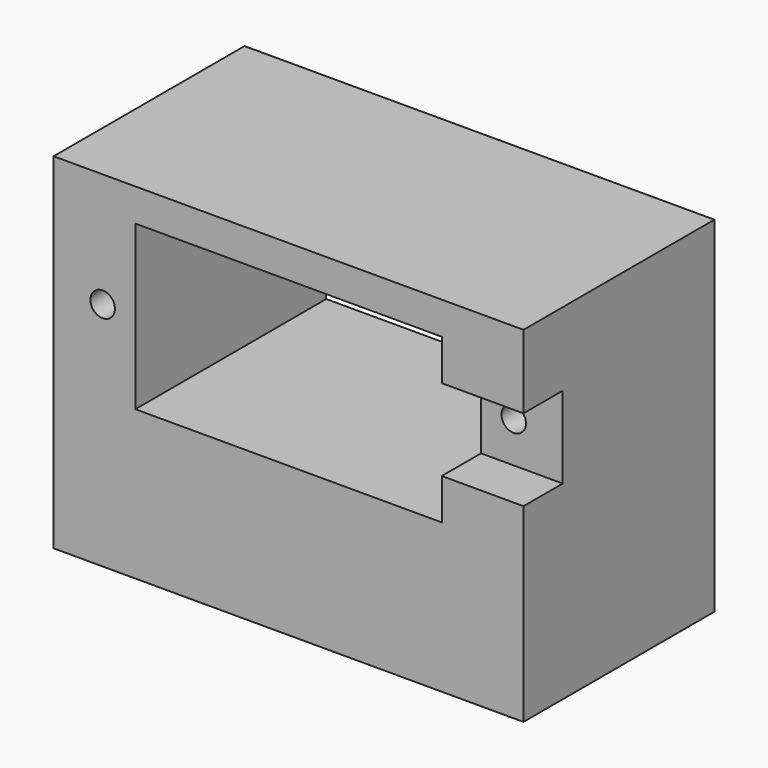
from build123d import *

# Parameters (mm, degrees)
F0_W     = 6.35
F0_H     = 12.7
F0_W_2   = 23.8125
F0_H_2   = 2.54
F0_H_3   = 0.76
F1_DEPTH = 26.825
F2_R     = 0.9525
F3_DEPTH = 18.541
F2_W     = 6.35
F2_H     = 6.35
F4_DEPTH = 3.81


with BuildPart() as f1:
    # F0 (on Top) → F1 (new body)
    with BuildSketch(Plane.XY):
        with Locations((-15.08125, 0)):
            Rectangle(F0_W, F0_H)
        Rectangle(F0_W_2, F0_H)
        with Locations((15.08125, 0)):
            Rectangle(F0_W, F0_H)
        with Locations((-15.08125, -7.62)):
            Rectangle(F0_W, F0_H_2)
        with Locations((-15.08125, -9.27)):
            Rectangle(F0_W, F0_H_3)
        Polygon((18.25625, -9.65), (11.90625, -9.65), (-11.90625, -9.65), (-18.25625, -9.65), (-18.25625, -12.19), (18.25625, -12.19), align=None)
        with Locations((0, -7.62)):
            Rectangle(F0_W_2, F0_H_2)
        with Locations((0, -9.27)):
            Rectangle(F0_W_2, F0_H_3)
        with Locations((15.08125, -7.62)):
            Rectangle(F0_W, F0_H_2)
        with Locations((15.08125, -9.27)):
            Rectangle(F0_W, F0_H_3)
    extrude(amount=F1_DEPTH)

    # F2 (on face) → F3 (cut, through all)
    with BuildSketch(Plane.XZ.offset(12.19)):
        Polygon((11.90625, 21.11), (11.90625, 24.285), (8.09625, 24.285), (-8.09625, 24.285), (-11.90625, 24.285), (-11.90625, 11.585), (11.90625, 11.585), (11.90625, 14.76), align=None)
        with Locations((-14.44625, 17.935)):
            Circle(F2_R)
        with Locations((14.44625, 17.935)):
            Circle(F2_R)
    extrude(amount=-F3_DEPTH, mode=Mode.SUBTRACT)

    # F2 (on face) → F4 (cut)
    with BuildSketch(Plane.XZ.offset(12.19)):
        with Locations((15.08125, 17.935)):
            Rectangle(F2_W, F2_H)
        with Locations((14.44625, 17.935)):
            Circle(F2_R, mode=Mode.SUBTRACT)
    extrude(amount=-F4_DEPTH, mode=Mode.SUBTRACT)


solid = f1.part
